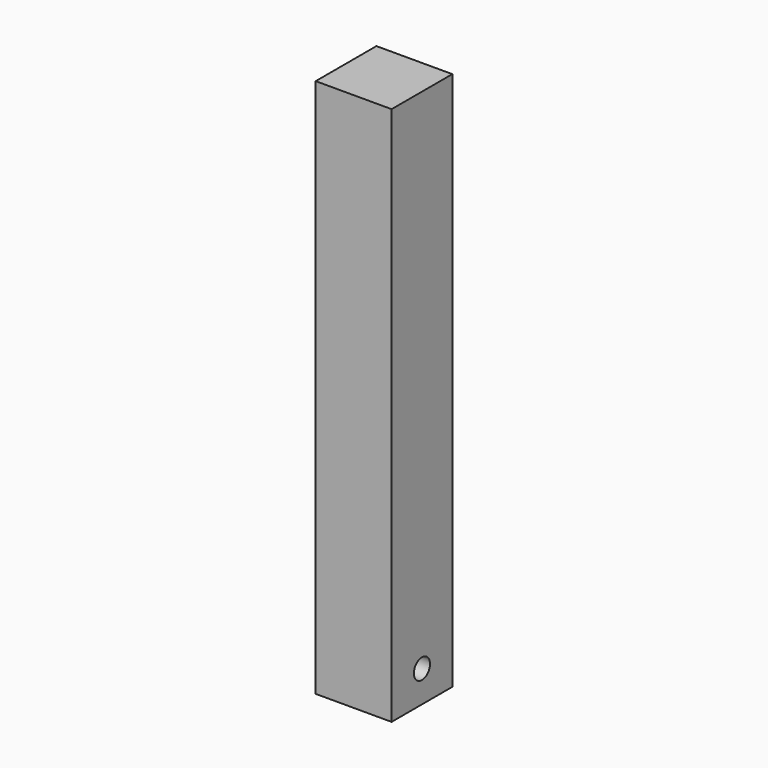
from build123d import *

# Parameters (mm, degrees)
F0_W     = 20
F0_H     = 20
F1_DEPTH = 142.15
F3_R     = 2.65
F4_DEPTH = 20.001


with BuildPart() as f1:
    # F0 (on Top) → F1 (new body)
    with BuildSketch(Plane.XY):
        Rectangle(F0_W, F0_H)
    extrude(amount=F1_DEPTH)

    # F3 (on face) → F4 (cut, through all)
    with BuildSketch(Plane(origin=(-10, 0, 0), x_dir=(0, -1, 0), z_dir=(-1, 0, 0))):
        with Locations((0, 8.3)):
            Circle(F3_R)
    extrude(amount=-F4_DEPTH, mode=Mode.SUBTRACT)


solid = f1.part
